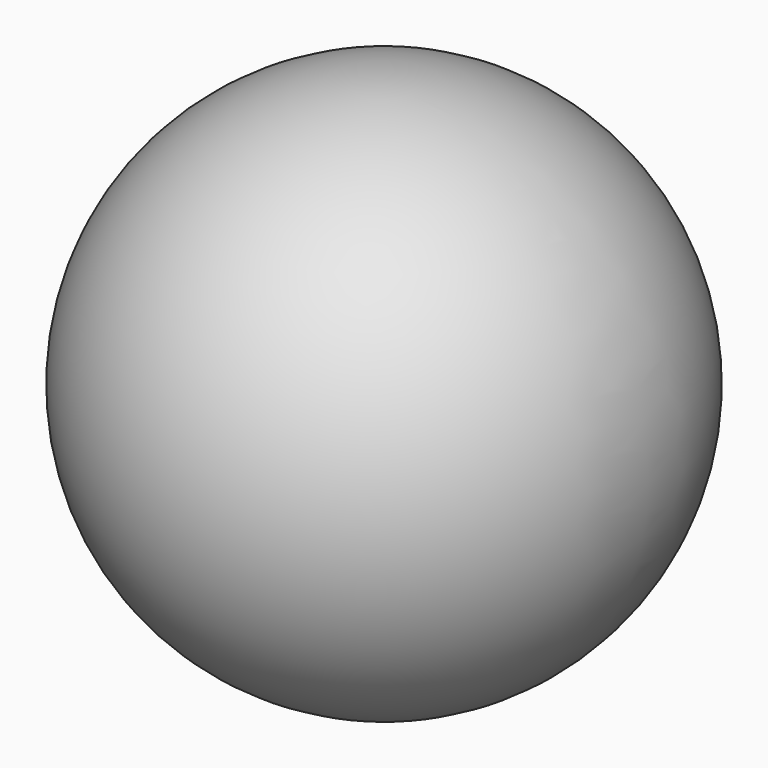
from build123d import *

# Parameters (mm, degrees)
F2_T = -2.9972


with BuildPart() as f1:
    # F0 (on Front) → F1 (revolve)
    with BuildSketch(Plane.XZ):
        with BuildLine():
            Line((0, 68.58), (0, 0))
            ThreePointArc((0, 0), (34.29, 34.29), (0, 68.58))
        make_face()
    revolve(axis=Axis((0, 0, 34.29), (0, 0, 1)))

    # F2 (hollow: no face is removed)
    offset(amount=F2_T, mode=Mode.SUBTRACT)


solid = f1.part
